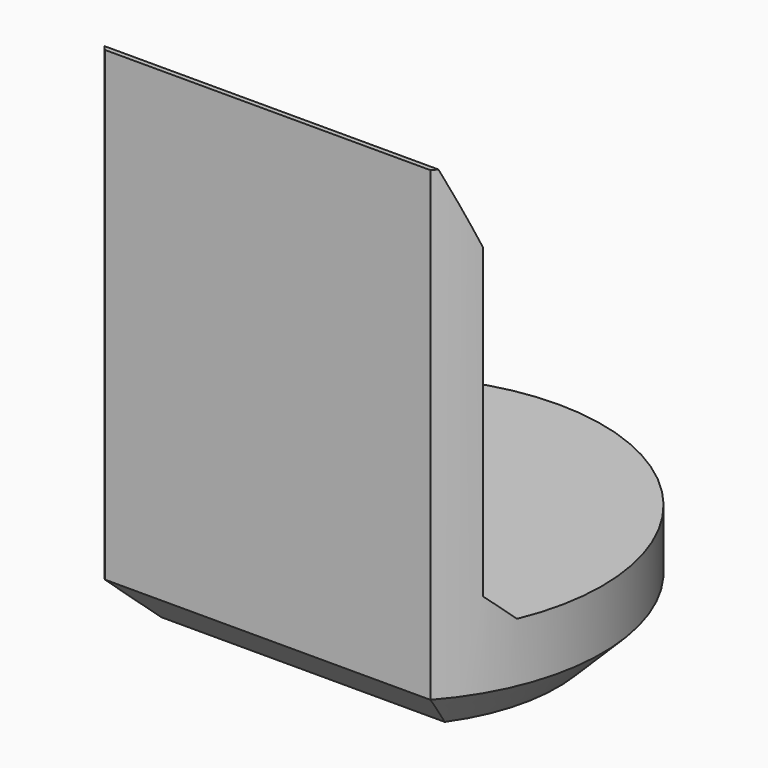
from build123d import *

# Parameters (mm, degrees)
PAD007_DEPTH         = 6.9
POCKET005_DEPTH      = 2.951
POCKET005_DEPTH_BACK = 2.951
CHAMFER008_SIZE      = 0.6


with BuildPart() as part:
    # Sketch018 → Pad007 (new body)
    with BuildSketch(Plane.XY):
        with BuildLine():
            ThreePointArc((2.2, -1.9653244007), (0, 2.95), (-2.2, -1.9653244007))
            Line((-2.2, -1.9653244007), (2.2, -1.9653244007))
        make_face()
    extrude(amount=PAD007_DEPTH)

    # Sketch019 → Pocket005 (cut, two sides)
    with BuildSketch(Plane.YZ) as pocket005_sk:
        Polygon((-1.9, 6.9), (-1.5, 5.9), (-1.5, 1.75), (-1.15, 1.4), (5, 1.4), (5, 6.9), align=None)
    extrude(amount=-POCKET005_DEPTH, mode=Mode.SUBTRACT)
    extrude(pocket005_sk.sketch, amount=POCKET005_DEPTH_BACK, mode=Mode.SUBTRACT)

    # Chamfer008
    chamfer008_edges = [part.edges().sort_by_distance(p)[0] for p in [
        (0, 2.95, 0),
        (0, -1.965324, 0),
    ]]
    chamfer(chamfer008_edges, length=CHAMFER008_SIZE)


with BuildPart() as part_1:
    # Body061 placement: moved
    add(part.part.moved(Location((0, 66, 0))))


solid = part_1.part
